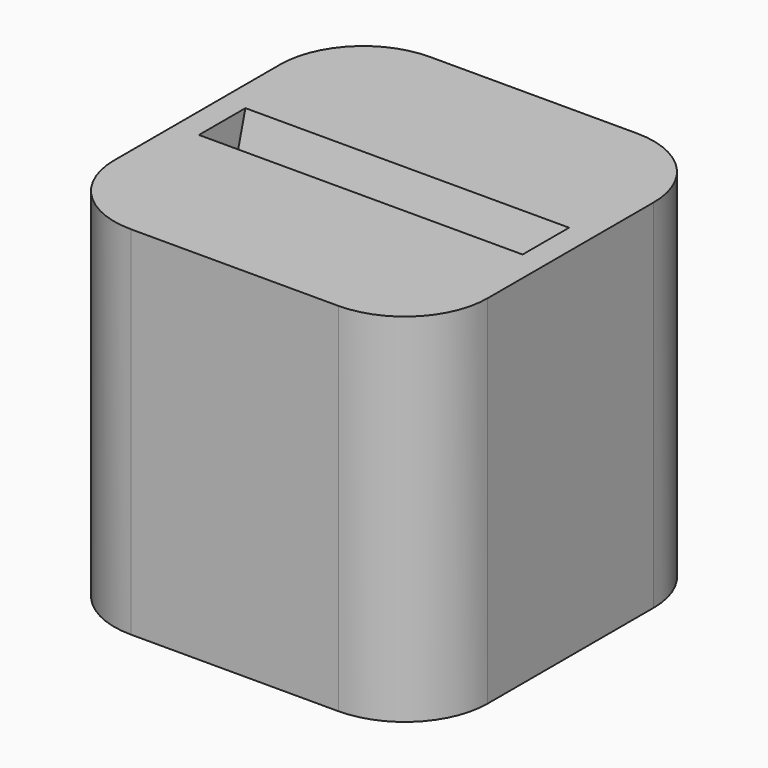
from build123d import *

# Parameters (mm, degrees)
F1_DEPTH = 43
F2_W     = 39
F2_H     = 7
F4_W     = 39
F4_H     = 7
F6_W     = 39
F6_H     = 7
F7_ANGLE = -20.8


with BuildPart() as f1:
    # F0 (on Top) → F1 (new body)
    with BuildSketch(Plane.XY):
        with BuildLine():
            Line((-12.5, -22.5), (12.5, -22.5))
            ThreePointArc((12.5, -22.5), (19.571068, -19.571068), (22.5, -12.5))
            Line((22.5, -12.5), (22.5, 12.5))
            ThreePointArc((22.5, 12.5), (19.571068, 19.571068), (12.5, 22.5))
            Line((12.5, 22.5), (-12.5, 22.5))
            ThreePointArc((-12.5, 22.5), (-19.571068, 19.571068), (-22.5, 12.5))
            Line((-22.5, 12.5), (-22.5, -12.5))
            ThreePointArc((-22.5, -12.5), (-19.571068, -19.571068), (-12.5, -22.5))
        make_face()
    extrude(amount=F1_DEPTH)

    # F2 (on face) → F5 section 0
    with BuildSketch(Plane.XY.offset(43)):
        Rectangle(F2_W, F2_H)
    # F4 (on offset) → F5 section 1
    with BuildSketch(Plane.XY.offset(5)):
        with Locations((0, -10.5)):
            Rectangle(F4_W, F4_H)
    loft(mode=Mode.SUBTRACT)

    # F6 (on face) → F7 (revolve)
    with BuildSketch(Plane.XY.offset(5)):
        with Locations((0, -10.5)):
            Rectangle(F6_W, F6_H)
    revolve(axis=Axis((0, -7, 5), (1, 0, 0)), revolution_arc=F7_ANGLE)


solid = f1.part
